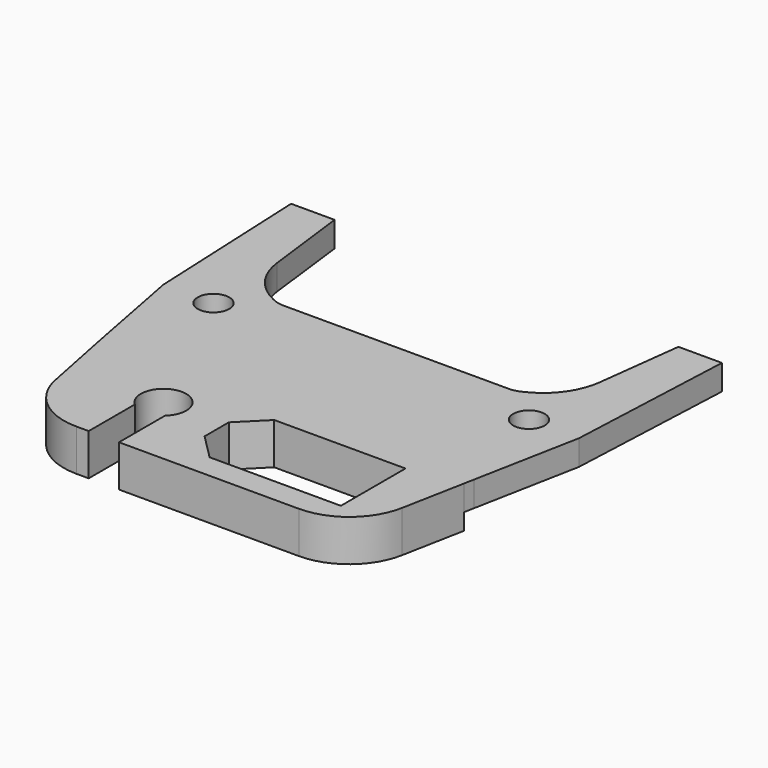
from build123d import *

# Parameters (mm, degrees)
F0_R     = 1.5875
F1_DEPTH = 2.54
F2_DEPTH = 2.54
F3_DEPTH = 1.651


with BuildPart() as f1:
    # F0 (on Top) → F1 (new body)
    with BuildSketch(Plane.XY):
        with BuildLine():
            ThreePointArc((-2.34618, 22.908559), (-2.870941, 22.729985), (-3.421944, 22.6695))
            Line((-3.421944, 22.6695), (-26.090599, 22.6695))
            ThreePointArc((-26.090599, 22.6695), (-26.641602, 22.729985), (-27.166363, 22.908559))
            Line((-27.166363, 22.908559), (-27.382744, 23.009724))
            ThreePointArc((-27.382744, 23.009724), (-29.832018, 25.031607), (-30.995815, 27.986693))
            Line((-30.995815, 27.986693), (-32.052543, 36.576))
            Line((-32.052543, 36.576), (-36.434043, 36.576))
            Line((-36.434043, 36.576), (-35.672043, 19.558))
            Line((-35.672043, 19.558), (-33.622761, 8.89))
            Line((-33.622761, 8.89), (-33.419602, 7.874))
            Line((-33.419602, 7.874), (3.915098, 7.874))
            Line((3.915098, 7.874), (4.110263, 8.89))
            Line((4.110263, 8.89), (6.1595, 19.558))
            Line((6.1595, 19.558), (6.9215, 36.576))
            Line((6.9215, 36.576), (2.54, 36.576))
            Line((2.54, 36.576), (1.483271, 27.986693))
            ThreePointArc((1.483271, 27.986693), (0.319475, 25.031607), (-2.129799, 23.009724))
            Line((-2.129799, 23.009724), (-2.34618, 22.908559))
        make_face()
        with Locations((-30.630143, 19.558)):
            Circle(F0_R, mode=Mode.SUBTRACT)
        with Locations((1.1176, 19.558)):
            Circle(F0_R, mode=Mode.SUBTRACT)
    extrude(amount=F1_DEPTH)

    # F0 (on Top) → F2 (join)
    with BuildSketch(Plane.XY):
        with BuildLine():
            Line((2.704744, 1.573093), (3.915098, 7.874))
            Line((3.915098, 7.874), (-33.419602, 7.874))
            Line((-33.419602, 7.874), (-32.152758, 1.5385))
            ThreePointArc((-32.152758, 1.5385), (-29.95333, -2.125914), (-25.9296, -3.566403))
            Line((-25.9296, -3.566403), (-24.686543, -3.567104))
            Line((-24.686543, -3.567104), (-24.686543, 2.233116))
            ThreePointArc((-24.686543, 2.233116), (-23.162543, 6.223), (-21.638543, 2.233116))
            Line((-21.638543, 2.233116), (-21.638543, -3.568821))
            Line((-21.638543, -3.568821), (-21.634144, -3.568824))
            Line((-21.634144, -3.568824), (-3.534824, -3.579023))
            ThreePointArc((-3.534824, -3.579023), (0.511873, -2.125521), (2.704744, 1.573093))
        make_face()
        Polygon((-1.27, 7.0104), (-1.27, -1.1176), (-14.478, -1.1176), (-17.018, 1.4224), (-17.018, 4.4704), (-14.478, 7.0104), align=None, mode=Mode.SUBTRACT)
    extrude(amount=F2_DEPTH)

    # F0 (on Top) → F3 (join)
    with BuildSketch(Plane.XY):
        with BuildLine():
            Line((2.704744, 1.573093), (3.915098, 7.874))
            Line((3.915098, 7.874), (-33.419602, 7.874))
            Line((-33.419602, 7.874), (-32.152758, 1.5385))
            ThreePointArc((-32.152758, 1.5385), (-29.95333, -2.125914), (-25.9296, -3.566403))
            Line((-25.9296, -3.566403), (-24.686543, -3.567104))
            Line((-24.686543, -3.567104), (-24.686543, 2.233116))
            ThreePointArc((-24.686543, 2.233116), (-23.162543, 6.223), (-21.638543, 2.233116))
            Line((-21.638543, 2.233116), (-21.638543, -3.568821))
            Line((-21.638543, -3.568821), (-21.634144, -3.568824))
            Line((-21.634144, -3.568824), (-3.534824, -3.579023))
            ThreePointArc((-3.534824, -3.579023), (0.511873, -2.125521), (2.704744, 1.573093))
        make_face()
        Polygon((-1.27, 7.0104), (-1.27, -1.1176), (-14.478, -1.1176), (-17.018, 1.4224), (-17.018, 4.4704), (-14.478, 7.0104), align=None, mode=Mode.SUBTRACT)
    extrude(amount=-F3_DEPTH)


solid = f1.part
